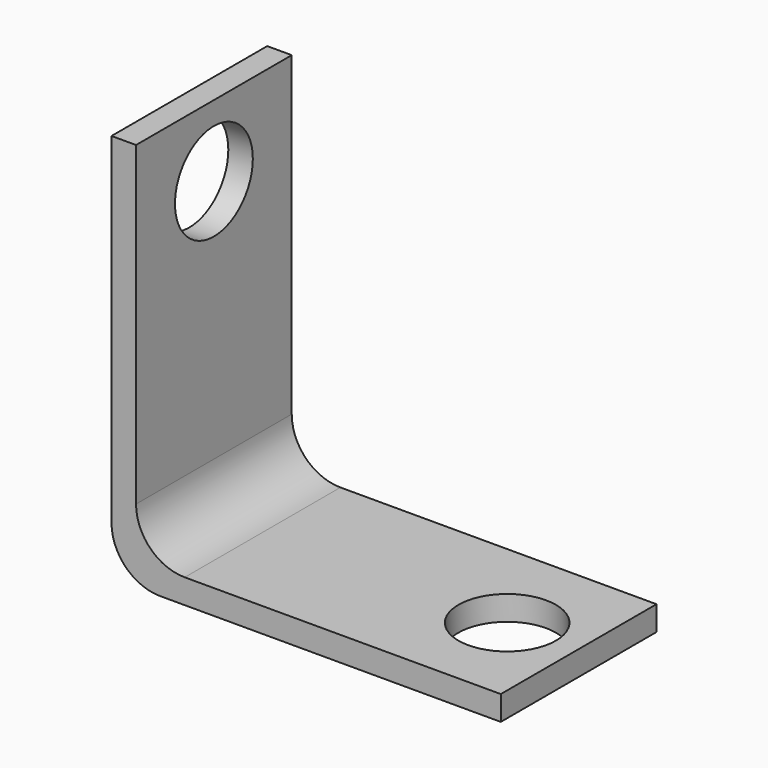
from build123d import *

# Parameters (mm, degrees)
F1_DEPTH = 12.7
F2_R     = 3.175
F3_DEPTH = 25.4
F4_R     = 3.175
F5_DEPTH = 25.4


with BuildPart() as f1:
    # F0 (on Front) → F1 (new body)
    with BuildSketch(Plane.XZ):
        with BuildLine():
            Line((0, 25.4), (0, 3.175))
            ThreePointArc((0, 3.175), (0.929936, 0.929936), (3.175, 0))
            Line((3.175, 0), (25.4, 0))
            Line((25.4, 0), (25.4, 1.6002))
            Line((25.4, 1.6002), (4.7752, 1.6002))
            ThreePointArc((4.7752, 1.6002), (2.530136, 2.530136), (1.6002, 4.7752))
            Line((1.6002, 4.7752), (1.6002, 25.4))
            Line((1.6002, 25.4), (0, 25.4))
        make_face()
    extrude(amount=F1_DEPTH)

    # F2 (on face) → F3 (cut)
    with BuildSketch(Plane.XY.offset(1.6002)):
        with Locations((20.73656, -6.35)):
            Circle(F2_R)
    extrude(amount=-F3_DEPTH, mode=Mode.SUBTRACT)

    # F4 (on face) → F5 (cut)
    with BuildSketch(Plane.YZ.offset(1.6002)):
        with Locations((-6.35, 20.73656)):
            Circle(F4_R)
    extrude(amount=-F5_DEPTH, mode=Mode.SUBTRACT)


solid = f1.part
